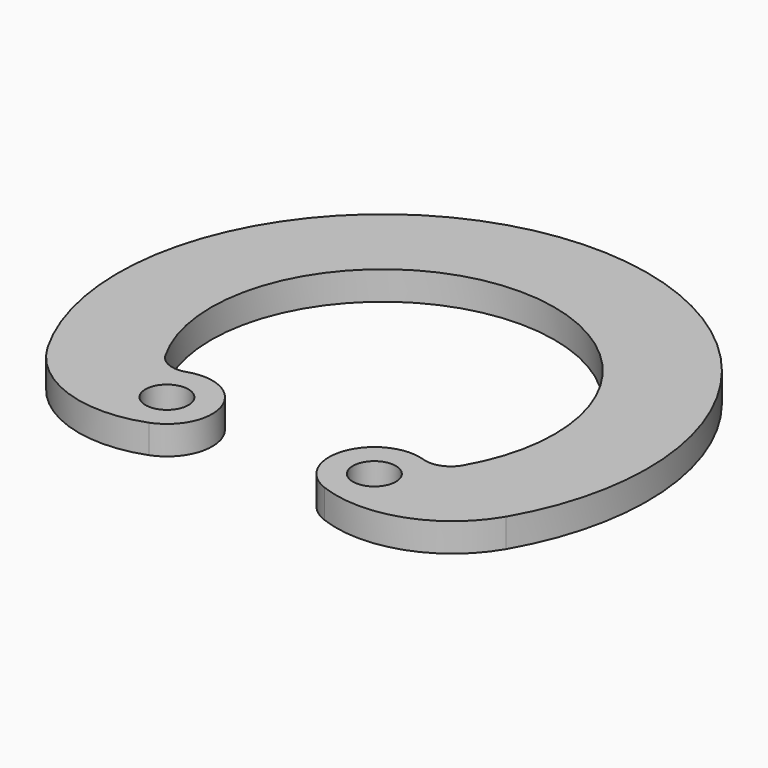
from build123d import *

# Parameters (mm, degrees)
F0_R     = 0.75
F1_DEPTH = 1


with BuildPart() as f1:
    # F0 (on Top) → F1 (new body)
    with BuildSketch(Plane.XY):
        with BuildLine():
            ThreePointArc((-5.196152, -3), (0, 6), (5.196152, -3))
            ThreePointArc((5.196152, -3), (4.736217, -3.390004), (4.133261, -3.399364))
            ThreePointArc((4.133261, -3.399364), (2.132517, -4.362657), (3.062402, -6.379145))
            ThreePointArc((3.062402, -6.379145), (5.857871, -6.408447), (8.010735, -4.625))
            ThreePointArc((8.010735, -4.625), (0, 9.25), (-8.010735, -4.625))
            ThreePointArc((-8.010735, -4.625), (-5.857871, -6.408447), (-3.062402, -6.379145))
            ThreePointArc((-3.062402, -6.379145), (-2.132517, -4.362657), (-4.133261, -3.399364))
            ThreePointArc((-4.133261, -3.399364), (-4.736217, -3.390004), (-5.196152, -3))
        make_face()
        with Locations((-3.622614, -4.898161)):
            Circle(F0_R, mode=Mode.SUBTRACT)
        with Locations((3.622614, -4.898161)):
            Circle(F0_R, mode=Mode.SUBTRACT)
    extrude(amount=F1_DEPTH)


solid = f1.part
